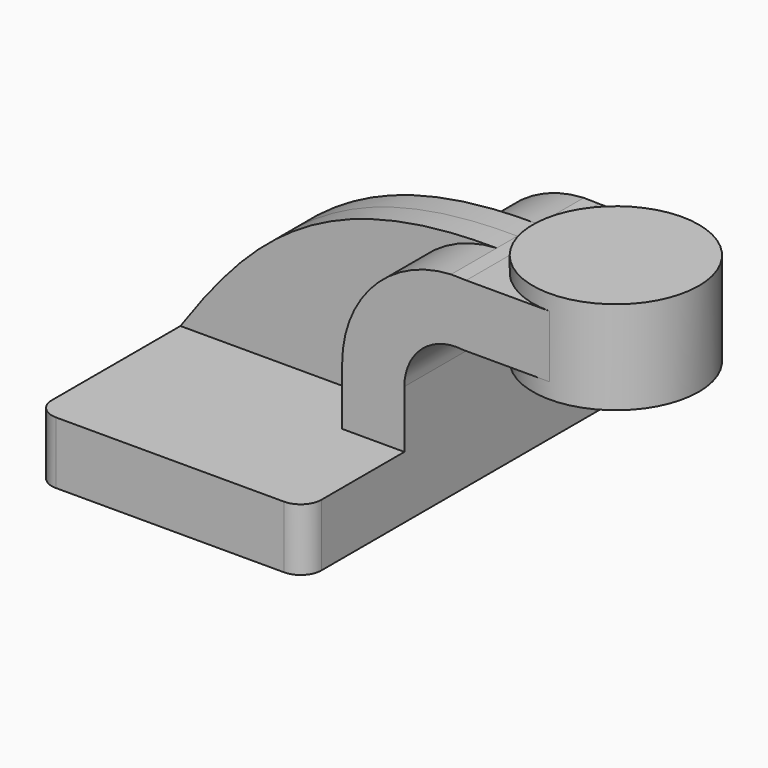
from build123d import *

# Parameters (mm, degrees)
F1_DEPTH = 63.5
F2_DEPTH = 25.4
F3_DEPTH = 7.9375
F0_W     = 25.4
F0_H     = 19.05
F4_DEPTH = 25.4
F6_R     = 6.35


with BuildPart() as f1:
    # F0 (on Front) → F1 (new body, symmetric)
    with BuildSketch(Plane.XZ):
        Polygon((22.225, 9.525), (-41.275, 9.525), (-41.275, -9.525), (41.275, -9.525), (41.275, 9.525), align=None)
    extrude(amount=F1_DEPTH, both=True)

    # F0 (on Front) → F2 (join, symmetric)
    with BuildSketch(Plane.XZ):
        with BuildLine():
            Line((22.225, 27.1335136465), (22.225, 9.525))
            Line((22.225, 9.525), (41.275, 9.525))
            Line((41.275, 9.525), (41.275, 27.1335136465))
            ThreePointArc((41.275, 27.1335136465), (46.6756561073, 39.0626269839), (59.2030308685, 42.8752))
            Line((59.2030308685, 42.8752), (60.325, 42.8752))
            Line((60.325, 42.8752), (60.325, 61.9252))
            Line((60.325, 61.9252), (60.1986366915, 61.9252))
            add(Edge.make_bspline(
                [(55.5778495322, 62.02311049), (57.0926075375, 62.0086737376), (58.6326298587, 61.9761317105), (60.1986366915, 61.9252)],
                knots=[111.0214759669, 111.0214759669, 111.0214759669, 111.0214759669, 114.2045529016, 114.2045529016, 114.2045529016, 114.2045529016], degree=3))
            ThreePointArc((55.5778495322, 62.02311049), (31.904574869, 51.2669786889), (22.225, 27.1335136465))
        make_face()
    extrude(amount=F2_DEPTH, both=True)

    # F0 (on Front) → F3 (join, symmetric)
    with BuildSketch(Plane.XZ):
        with BuildLine():
            add(Edge.make_bspline(
                [(-41.275, 9.525), (-19.3530475972, 41.0047273115), (2.745111609, 62.5266451514), (55.5778495322, 62.02311049)],
                knots=[0, 0, 0, 0, 111.0214759669, 111.0214759669, 111.0214759669, 111.0214759669], degree=3))
            Line((-41.275, 9.525), (22.225, 9.525))
            Line((22.225, 9.525), (22.225, 27.1335136465))
            ThreePointArc((22.225, 27.1335136465), (31.904574869, 51.2669786889), (55.5778495322, 62.02311049))
        make_face()
    extrude(amount=F3_DEPTH, both=True)

    # F0 (on Front) → F4 (join, symmetric)
    with BuildSketch(Plane.XZ):
        with Locations((73.025, 52.4002)):
            Rectangle(F0_W, F0_H)
    extrude(amount=F4_DEPTH, both=True)

    # F0 (on Front) → F5 (revolve)
    with BuildSketch(Plane.XZ):
        Polygon((85.725, 66.675), (85.725, 61.9252), (85.725, 42.8752), (85.725, 38.1), (111.125, 38.1), (111.125, 66.675), align=None)
    revolve(axis=Axis((85.725, 0, 52.3875), (0, 0, 1)))

    # F6
    f6_edges = [f1.edges().sort_by_distance(p)[0] for p in [
        (-41.275, -63.5, 0),
        (41.275, -63.5, 0),
        (-41.275, 63.5, 0),
        (41.275, 63.5, 0),
    ]]
    fillet(f6_edges, radius=F6_R)


solid = f1.part
